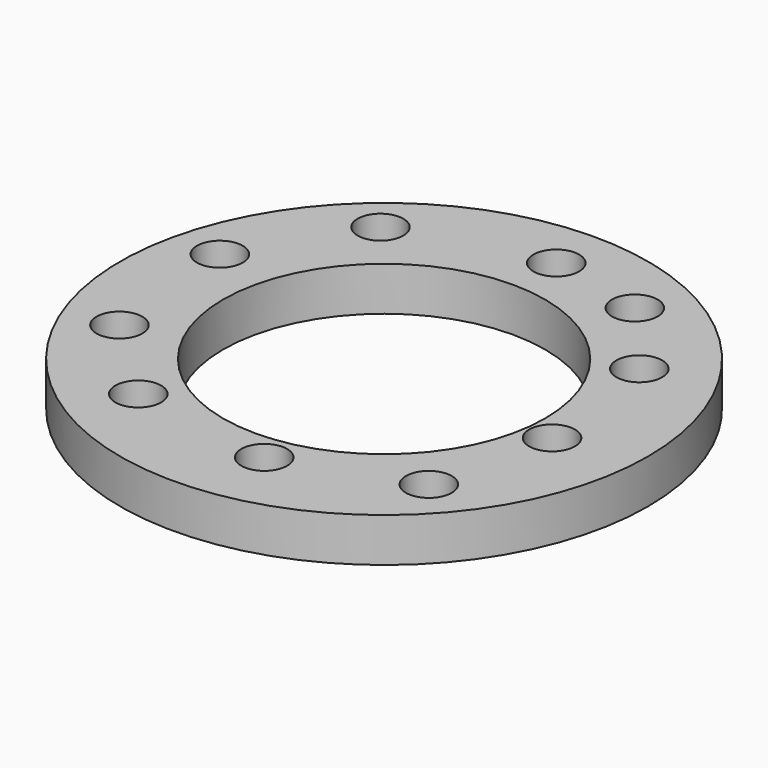
from build123d import *

# Parameters (mm, degrees)
F0_R     = 150
F0_R_2   = 13
F0_R_3   = 91.5
F1_DEPTH = 25


with BuildPart() as f1:
    # F0 (on Top) → F1 (new body)
    with BuildSketch(Plane.XY):
        with Locations((-15.279851, 11.636195)):
            Circle(F0_R)
        with Locations((-79.44674, -82.758747)):
            Circle(F0_R_2, mode=Mode.SUBTRACT)
        with Locations((-127.347842, -36.266502)):
            Circle(F0_R_2, mode=Mode.SUBTRACT)
        with Locations((2.266906, -95.438458)):
            Circle(F0_R_2, mode=Mode.SUBTRACT)
        with Locations((75.527415, -70.079044)):
            Circle(F0_R_2, mode=Mode.SUBTRACT)
        with Locations((90.320408, -1.045102)):
            Circle(F0_R_2, mode=Mode.SUBTRACT)
        with Locations((-135.09655, 44.742718)):
            Circle(F0_R_2, mode=Mode.SUBTRACT)
        with Locations((-95.648579, 109.550089)):
            Circle(F0_R_2, mode=Mode.SUBTRACT)
        with Locations((-15.279851, 11.636195)):
            Circle(F0_R_3, mode=Mode.SUBTRACT)
        with Locations((79.049557, 75.033121)):
            Circle(F0_R_2, mode=Mode.SUBTRACT)
        with Locations((41.010443, 119.412079)):
            Circle(F0_R_2, mode=Mode.SUBTRACT)
        with Locations((-13.23051, 131.387368)):
            Circle(F0_R_2, mode=Mode.SUBTRACT)
    extrude(amount=F1_DEPTH)


solid = f1.part
